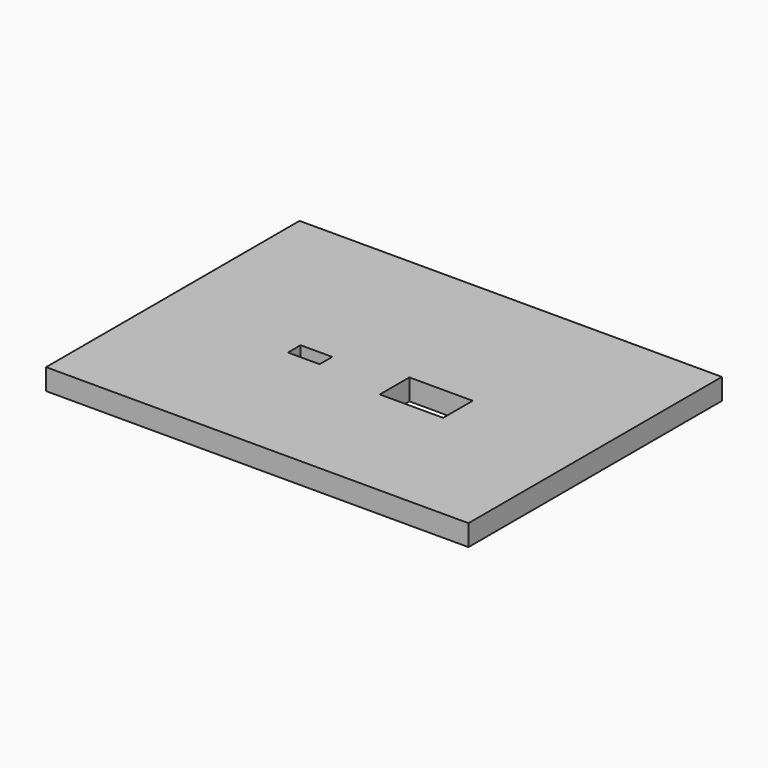
from build123d import *

# Parameters (mm, degrees)
BOX018_W     = 6
BOX018_H     = 3.5
BOX018_DEPTH = 3
BOX010_W     = 8
BOX010_H     = 5.5
BOX010_DEPTH = 1
BOX011_W     = 3
BOX011_H     = 1.5
BOX011_DEPTH = 2
BOX009_W     = 6
BOX009_H     = 3.5
BOX009_DEPTH = 2
BOX004_W     = 40
BOX004_H     = 30
BOX004_DEPTH = 2


with BuildPart() as cube016:
    # Box018 → Box018 (new body)
    with BuildSketch(Plane(origin=(22, 12, 11), x_dir=(1, 0, 0), z_dir=(0, 0, 1))):
        with Locations((3, 1.75)):
            Rectangle(BOX018_W, BOX018_H)
    extrude(amount=BOX018_DEPTH)


with BuildPart() as cube008:
    # Box010 → Box010 (new body)
    with BuildSketch(Plane(origin=(10, 11, 10), x_dir=(1, 0, 0), z_dir=(0, 0, 1))):
        with Locations((4, 2.75)):
            Rectangle(BOX010_W, BOX010_H)
    extrude(amount=BOX010_DEPTH)


with BuildPart() as cube009:
    # Box011 → Box011 (new body)
    with BuildSketch(Plane(origin=(12.5, 13, 12), x_dir=(1, 0, 0), z_dir=(0, 0, 1))):
        with Locations((1.5, 0.75)):
            Rectangle(BOX011_W, BOX011_H)
    extrude(amount=BOX011_DEPTH)


with BuildPart() as fusion002:
    # Box009 → Box009 (new body)
    with BuildSketch(Plane(origin=(11, 12, 10), x_dir=(1, 0, 0), z_dir=(0, 0, 1))):
        with Locations((3, 1.75)):
            Rectangle(BOX009_W, BOX009_H)
    extrude(amount=BOX009_DEPTH)

    # Fusion002: union Cube008, Cube009
    add(cube008.part)
    add(cube009.part)


with BuildPart() as top:
    # Box004 → Box004 (new body)
    with BuildSketch(Plane.XY.offset(11)):
        with Locations((20, 15)):
            Rectangle(BOX004_W, BOX004_H)
    extrude(amount=BOX004_DEPTH)

    # Cut002: cut Fusion002
    add(fusion002.part, mode=Mode.SUBTRACT)

    # Cut005: cut Cube016
    add(cube016.part, mode=Mode.SUBTRACT)


solid = top.part
